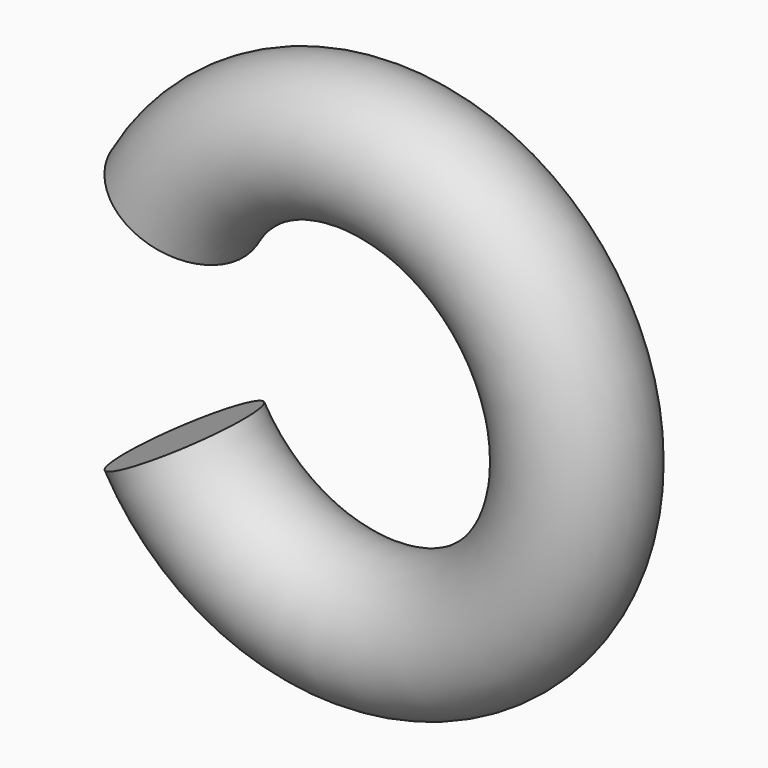
from build123d import *

# Parameters (mm, degrees)
F1_ANGLE_BACK = 150
F1_ANGLE      = 300


with BuildPart() as f1:
    # F0 (on Top) → F1 (revolve)
    with BuildSketch(Plane.XY, mode=Mode.PRIVATE) as f1_sk:
        with BuildLine():
            ThreePointArc((26.6727210264, 0), (39.3727210264, -12.7), (52.0727210264, 0))
            ThreePointArc((52.0727210264, 0), (39.3727210264, 12.7), (26.6727210264, 0))
        make_face()
    revolve(f1_sk.sketch.rotate(Axis((0, 19.4612834603, 0), (0, 1, 0)), -F1_ANGLE_BACK), axis=Axis((0, 19.4612834603, 0), (0, 1, 0)), revolution_arc=F1_ANGLE)


solid = f1.part
